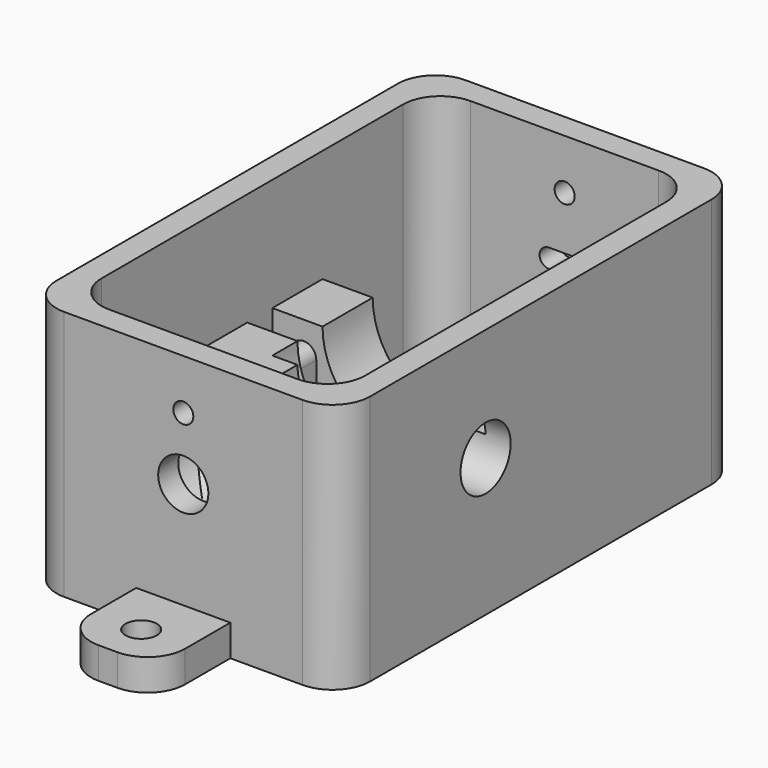
from build123d import *

# Parameters (mm, degrees)
SKETCH_W        = 50
SKETCH_H        = 80
PAD_DEPTH       = 40
SKETCH001_W     = 42
SKETCH001_H     = 72
POCKET_DEPTH    = 36
SKETCH002_W     = 42
SKETCH002_H     = 10
PAD001_DEPTH    = 18
SKETCH003_R     = 13
POCKET001_DEPTH = 30
SKETCH004_W     = 42
SKETCH004_H     = 10
PAD002_DEPTH    = 18
SKETCH005_R     = 13
POCKET002_DEPTH = 10
PAD003_DEPTH    = 5
PAD004_DEPTH    = 5
SKETCH008_R     = 5
POCKET003_DEPTH = 19
POCKET004_DEPTH = 5
SKETCH010_R     = 4
POCKET005_DEPTH = 5
SKETCH011_W     = 15
SKETCH011_H     = 5
PAD005_DEPTH    = 15
SKETCH012_W     = 15
SKETCH012_H     = 5
PAD006_DEPTH    = 15
SKETCH013_R     = 2.5
POCKET006_DEPTH = 5
FILLET_R        = 6
FILLET001_R     = 6
FILLET002_R     = 6
SKETCH014_R     = 1.6
POCKET007_DEPTH = 95.001


with BuildPart() as part:
    # Sketch → Pad (new body)
    with BuildSketch(Plane.XY):
        with Locations((-25, 40)):
            Rectangle(SKETCH_W, SKETCH_H)
    extrude(amount=PAD_DEPTH)

    # Sketch001 (on Face6 of Pad) → Pocket (cut)
    with BuildSketch(Plane.XY.offset(40)):
        with Locations((-25, 40)):
            Rectangle(SKETCH001_W, SKETCH001_H)
    extrude(amount=-POCKET_DEPTH, mode=Mode.SUBTRACT)

    # Sketch002 (on Face11 of Pocket) → Pad001 (join)
    with BuildSketch(Plane.XY.offset(4)):
        with Locations((-25, 34)):
            Rectangle(SKETCH002_W, SKETCH002_H)
    extrude(amount=PAD001_DEPTH)

    # Sketch003 (on Face13 of Pad001) → Pocket001 (cut)
    with BuildSketch(Plane.XZ.offset(-29)):
        with Locations((-25, 22)):
            Circle(SKETCH003_R)
    extrude(amount=-POCKET001_DEPTH, mode=Mode.SUBTRACT)

    # Sketch004 (on Face11 of Pocket001) → Pad002 (join)
    with BuildSketch(Plane.XY.offset(4)):
        with Locations((-25, 49)):
            Rectangle(SKETCH004_W, SKETCH004_H)
    extrude(amount=PAD002_DEPTH)

    # Sketch005 (on Face17 of Pad002) → Pocket002 (cut)
    with BuildSketch(Plane.XZ.offset(-44)):
        with Locations((-25, 22)):
            Circle(SKETCH005_R)
    extrude(amount=-POCKET002_DEPTH, mode=Mode.SUBTRACT)

    # Sketch006 (on Face17 of Pocket002) → Pad003 (join)
    with BuildSketch(Plane.XZ.offset(-44)):
        with BuildLine():
            ThreePointArc((-39, 17), (-41, 19), (-43, 17))
            Line((-43, 17), (-43, 12))
            ThreePointArc((-43, 12), (-41, 10), (-39, 12))
            Line((-39, 17), (-39, 12))
        make_face()
        with BuildLine():
            ThreePointArc((-7, 17), (-9, 19), (-11, 17))
            Line((-11, 17), (-11, 12))
            ThreePointArc((-11, 12), (-9, 10), (-7, 12))
            Line((-7, 17), (-7, 12))
        make_face()
    extrude(amount=PAD003_DEPTH)

    # Sketch007 (on Face13 of Pad003) → Pad004 (join)
    with BuildSketch(Plane.XZ.offset(-29)):
        with BuildLine():
            ThreePointArc((-38, 22), (-25, 9), (-12, 22))
            Line((-16, 22), (-12, 22))
            ThreePointArc((-34, 22), (-25, 13), (-16, 22))
            Line((-38, 22), (-34, 22))
        make_face()
    extrude(amount=-PAD004_DEPTH)

    # Sketch008 (on Face2 of Pad004) → Pocket003 (cut)
    with BuildSketch(Plane.YZ):
        with Locations((29, 22)):
            Circle(SKETCH008_R)
    extrude(amount=-POCKET003_DEPTH, mode=Mode.SUBTRACT)

    # Sketch009 (on Face6 of Pocket003) → Pocket004 (cut)
    with BuildSketch(Plane(origin=(0, 80, 0), x_dir=(-1, 0, 0), z_dir=(0, 1, 0))):
        with BuildLine():
            ThreePointArc((22.5, 23.5), (21, 22), (22.5, 20.5))
            Line((22.5, 20.5), (27.5, 20.5))
            ThreePointArc((27.5, 20.5), (29, 22), (27.5, 23.5))
            Line((22.5, 23.5), (27.5, 23.5))
        make_face()
    extrude(amount=-POCKET004_DEPTH, mode=Mode.SUBTRACT)

    # Sketch010 (on Face1 of Pocket004) → Pocket005 (cut)
    with BuildSketch(Plane.XZ):
        with Locations((-25, 22)):
            Circle(SKETCH010_R)
    extrude(amount=-POCKET005_DEPTH, mode=Mode.SUBTRACT)

    # Sketch011 (on Face7 of Pocket005) → Pad005 (join)
    with BuildSketch(Plane(origin=(0, 80, 0), x_dir=(-1, 0, 0), z_dir=(0, 1, 0))):
        with Locations((25, 2.5)):
            Rectangle(SKETCH011_W, SKETCH011_H)
    extrude(amount=PAD005_DEPTH)

    # Sketch012 (on Face1 of Pad005) → Pad006 (join)
    with BuildSketch(Plane.XZ):
        with Locations((-25, 2.5)):
            Rectangle(SKETCH012_W, SKETCH012_H)
    extrude(amount=PAD006_DEPTH)

    # Sketch013 (on Face20 of Pad006) → Pocket006 (cut)
    with BuildSketch(Plane.XY.offset(5)):
        with Locations((-25, 88.385622)):
            Circle(SKETCH013_R)
        with Locations((-25, -8.385622)):
            Circle(SKETCH013_R)
    extrude(amount=-POCKET006_DEPTH, mode=Mode.SUBTRACT)

    # Fillet
    fillet_edges = [part.edges().sort_by_distance(p)[0] for p in [
        (-32.5, -15, 2.5),
        (-17.5, -15, 2.5),
        (-32.5, 95, 2.5),
        (-17.5, 95, 2.5),
    ]]
    fillet(fillet_edges, radius=FILLET_R)

    # Fillet001
    fillet001_edges = [part.edges().sort_by_distance(p)[0] for p in [
        (-46, 16.5, 4),
        (-25, 4, 4),
        (-4, 16.5, 4),
        (-25, 29, 4),
        (-46, 4, 22),
        (-46, 76, 22),
        (-4, 76, 22),
        (-4, 4, 22),
    ]]
    fillet(fillet001_edges, radius=FILLET001_R)

    # Fillet002
    fillet002_edges = [part.edges().sort_by_distance(p)[0] for p in [
        (0, 0, 20),
        (-50, 0, 20),
        (-50, 80, 20),
        (0, 80, 20),
    ]]
    fillet(fillet002_edges, radius=FILLET002_R)

    # Sketch014 (on Face9 of Fillet002) → Pocket007 (cut, through all)
    with BuildSketch(Plane(origin=(0, 80, 0), x_dir=(-1, 0, 0), z_dir=(0, 1, 0))):
        with Locations((25, 32)):
            Circle(SKETCH014_R)
    extrude(amount=-POCKET007_DEPTH, mode=Mode.SUBTRACT)


solid = part.part
